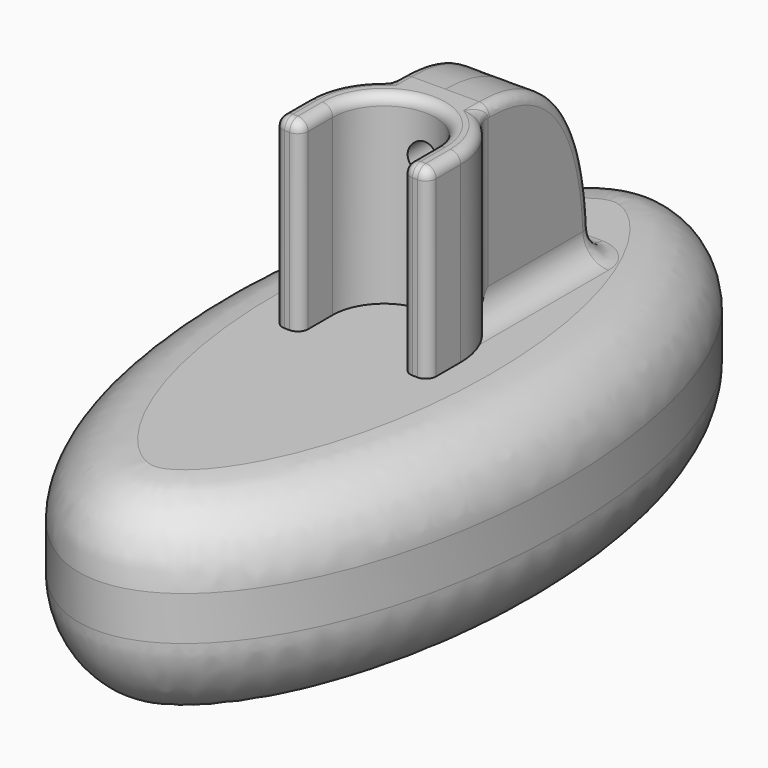
from build123d import *

# Parameters (mm, degrees)
PAD_DEPTH       = 18
PAD001_DEPTH    = 20
PAD002_DEPTH    = 4.3
SKETCH003_R     = 1.5
POCKET_DEPTH    = 30
SKETCH004_R     = 3
POCKET001_DEPTH = 9
SKETCH005_R     = 2
POCKET002_DEPTH = 4
FILLET_R        = 8.7
FILLET001_R     = 1
FILLET002_R     = 1
FILLET003_R     = 2.5
FILLET004_R     = 7


with BuildPart() as part:
    # Sketch → Pad (new body)
    with BuildSketch(Plane.XY):
        with BuildLine():
            ThreePointArc((7.5, 0), (0, 7.5), (-7.5, 0))
            Line((-7.5, 0), (-7.5, -4))
            Line((-7.5, -4), (-5, -4))
            Line((-5, -4), (-5, 0))
            ThreePointArc((5, 0), (0, 5), (-5, 0))
            Line((5, 0), (5, -4))
            Line((5, -4), (7.5, -4))
            Line((7.5, -4), (7.5, 0))
        make_face()
    extrude(amount=PAD_DEPTH)

    # Sketch001 → Pad001 (join)
    with BuildSketch(Plane.XY):
        with BuildLine():
            add(Edge.make_bspline(
                [(0, 35), (-30.310889, 35), (-15.155445, -17.5), (0, -70), (15.155445, -17.5), (30.310889, 35), (0, 35)],
                knots=[0, 0, 0, 2.094395, 2.094395, 4.18879, 4.18879, 6.283185, 6.283185, 6.283185], degree=2, weights=[1, 0.5, 1, 0.5, 1, 0.5, 1]))
        make_face()
    extrude(amount=-PAD001_DEPTH)

    # Sketch002 → Pad002 (join, symmetric)
    with BuildSketch(Plane.YZ):
        with BuildLine():
            Line((6, 0), (6, 18))
            Line((6, 18), (7.5, 18))
            add(Edge.make_bspline(
                [(7.5, 18), (20, 18), (20, 0)],
                knots=[0, 0, 0, 1, 1, 1], degree=2))
            Line((20, 0), (6, 0))
        make_face()
    extrude(amount=PAD002_DEPTH, both=True)

    # Sketch003 → Pocket (cut)
    with BuildSketch(Plane.XZ):
        with Locations((0, 13)):
            Circle(SKETCH003_R)
    extrude(amount=-POCKET_DEPTH, mode=Mode.SUBTRACT)

    # Sketch004 → Pocket001 (cut)
    with BuildSketch(Plane.XZ.offset(-12)):
        with Locations((0, 13)):
            Circle(SKETCH004_R)
    extrude(amount=-POCKET001_DEPTH, mode=Mode.SUBTRACT)

    # Sketch005 → Pocket002 (cut)
    with BuildSketch(Plane.XZ.offset(-12)):
        with Locations((0, 13)):
            Circle(SKETCH005_R)
    extrude(amount=POCKET002_DEPTH, mode=Mode.SUBTRACT)

    # Fillet
    fillet_edges = [part.edges().sort_by_distance(p)[0] for p in [
        (0.111328, -34.999292, -20),
    ]]
    fillet(fillet_edges, radius=FILLET_R)

    # Fillet001
    fillet001_edges = [part.edges().sort_by_distance(p)[0] for p in [
        (7.5, -4, 9),
        (5, -4, 9),
        (-5, -4, 9),
        (-7.5, -4, 9),
    ]]
    fillet(fillet001_edges, radius=FILLET001_R)

    # Fillet002
    fillet002_edges = [part.edges().sort_by_distance(p)[0] for p in [
        (4.3, 17.702003, 12.126439),
        (-4.3, 17.702003, 12.126439),
        (-6.652067, 3.464102, 18),
        (0, 5, 18),
        (6.652067, 3.464102, 18),
    ]]
    fillet(fillet002_edges, radius=FILLET002_R)

    # Fillet003
    fillet003_edges = [part.edges().sort_by_distance(p)[0] for p in [
        (4.3, 12.572458, 0),
        (0, 20, 0),
        (-4.3, 12.572458, 0),
        (-4.007107, 19.707107, 0),
        (4.007107, 19.707107, 0),
        (4.3, 6.144917, 8.5),
        (-4.3, 6.144917, 8.5),
    ]]
    fillet(fillet003_edges, radius=FILLET003_R)

    # Fillet004
    fillet004_edges = [part.edges().sort_by_distance(p)[0] for p in [
        (0.111328, -34.999292, 0),
    ]]
    fillet(fillet004_edges, radius=FILLET004_R)


solid = part.part
